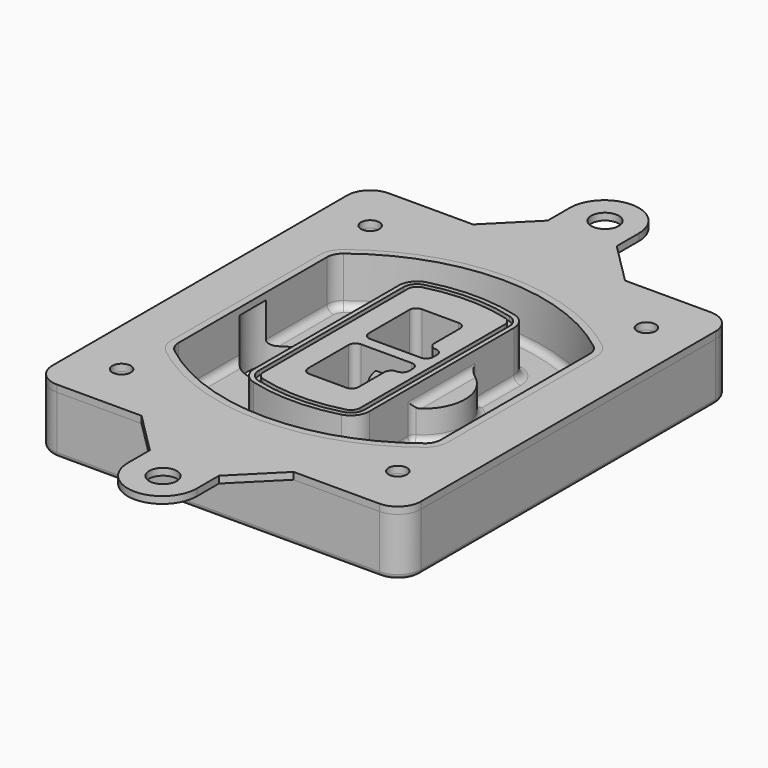
from build123d import *

# Parameters (mm, degrees)
F0_R      = 4
F1_DEPTH  = 25
F2_DEPTH  = 3
F3_DEPTH  = 18
F5_DEPTH  = 21
F6_DEPTH  = 2
F8_DEPTH  = 20
F9_DEPTH  = 16
F10_DEPTH = 25
F7_R      = 6
F7_R_2    = 4
F11_DEPTH = 6
F13_DEPTH = 9
F14_R     = 3
F15_R     = 2
F16_R     = 4
F16_R_2   = 6
F17_DEPTH = 3


with BuildPart() as f1:
    # F0 (on Top) → F1 (new body)
    with BuildSketch(Plane.XY):
        with BuildLine():
            ThreePointArc((-80, -80), (-77.0710678119, -87.0710678119), (-70, -90))
            Line((-70, -90), (70, -90))
            ThreePointArc((70, -90), (77.0710678119, -87.0710678119), (80, -80))
            Line((80, -80), (80, 80))
            ThreePointArc((80, 80), (77.0710678119, 87.0710678119), (70, 90))
            Line((70, 90), (-70, 90))
            ThreePointArc((-70, 90), (-77.0710678119, 87.0710678119), (-80, 80))
            Line((-80, 80), (-80, -80))
        make_face()
        with Locations((-60, -67.5)):
            Circle(F0_R, mode=Mode.SUBTRACT)
        with Locations((60, -67.5)):
            Circle(F0_R, mode=Mode.SUBTRACT)
        with Locations((-60, 67.5)):
            Circle(F0_R, mode=Mode.SUBTRACT)
        with BuildLine():
            ThreePointArc((-64, 40.2934422872), (-62.5820384798, 46.4328484224), (-58.6153846154, 51.3286200352))
            ThreePointArc((-58.6153846154, 51.3286200352), (0, 71.5), (58.6153846154, 51.3286200352))
            ThreePointArc((58.6153846154, 51.3286200352), (62.5820384798, 46.4328484224), (64, 40.2934422872))
            Line((64, 40.2934422872), (64, -40.2934422872))
            ThreePointArc((64, -40.2934422872), (62.5820384798, -46.4328484224), (58.6153846154, -51.3286200352))
            ThreePointArc((58.6153846154, -51.3286200352), (0, -71.5), (-58.6153846154, -51.3286200352))
            ThreePointArc((-58.6153846154, -51.3286200352), (-62.5820384798, -46.4328484224), (-64, -40.2934422872))
            Line((-64, -40.2934422872), (-64, 40.2934422872))
        make_face(mode=Mode.SUBTRACT)
        with Locations((60, 67.5)):
            Circle(F0_R, mode=Mode.SUBTRACT)
        with BuildLine():
            ThreePointArc((58.6153846154, 51.3286200352), (0, 71.5), (-58.6153846154, 51.3286200352))
            ThreePointArc((-58.6153846154, 51.3286200352), (-62.5820384798, 46.4328484224), (-64, 40.2934422872))
            Line((-64, 40.2934422872), (-64, -40.2934422872))
            ThreePointArc((-64, -40.2934422872), (-62.5820384798, -46.4328484224), (-58.6153846154, -51.3286200352))
            ThreePointArc((-58.6153846154, -51.3286200352), (0, -71.5), (58.6153846154, -51.3286200352))
            ThreePointArc((58.6153846154, -51.3286200352), (62.5820384798, -46.4328484224), (64, -40.2934422872))
            Line((64, -40.2934422872), (64, 40.2934422872))
            ThreePointArc((64, 40.2934422872), (62.5820384798, 46.4328484224), (58.6153846154, 51.3286200352))
        make_face()
        with BuildLine():
            Line((-60, -40.2934422872), (-60, 40.2934422872))
            ThreePointArc((-60, 40.2934422872), (-58.9871703427, 44.6787323838), (-56.1538461538, 48.1757121072))
            ThreePointArc((-56.1538461538, 48.1757121072), (0, 67.5), (56.1538461538, 48.1757121072))
            ThreePointArc((56.1538461538, 48.1757121072), (58.9871703427, 44.6787323838), (60, 40.2934422872))
            Line((60, 40.2934422872), (60, -40.2934422872))
            ThreePointArc((60, -40.2934422872), (58.9871703427, -44.6787323838), (56.1538461538, -48.1757121072))
            ThreePointArc((56.1538461538, -48.1757121072), (0, -67.5), (-56.1538461538, -48.1757121072))
            ThreePointArc((-56.1538461538, -48.1757121072), (-58.9871703427, -44.6787323838), (-60, -40.2934422872))
        make_face(mode=Mode.SUBTRACT)
        with BuildLine():
            ThreePointArc((-56.1538461538, 48.1757121072), (-58.9871703427, 44.6787323838), (-60, 40.2934422872))
            Line((-60, 40.2934422872), (-60, -40.2934422872))
            ThreePointArc((-60, -40.2934422872), (-58.9871703427, -44.6787323838), (-56.1538461538, -48.1757121072))
            ThreePointArc((-56.1538461538, -48.1757121072), (0, -67.5), (56.1538461538, -48.1757121072))
            ThreePointArc((56.1538461538, -48.1757121072), (58.9871703427, -44.6787323838), (60, -40.2934422872))
            Line((60, -40.2934422872), (60, 40.2934422872))
            ThreePointArc((60, 40.2934422872), (58.9871703427, 44.6787323838), (56.1538461538, 48.1757121072))
            ThreePointArc((56.1538461538, 48.1757121072), (0, 67.5), (-56.1538461538, 48.1757121072))
        make_face()
        with BuildLine():
            ThreePointArc((54.3076923077, 45.8110311612), (56.2910192399, 43.3631453548), (57, 40.2934422872))
            Line((57, 40.2934422872), (57, -40.2934422872))
            ThreePointArc((57, -40.2934422872), (56.2910192399, -43.3631453548), (54.3076923077, -45.8110311612))
            ThreePointArc((54.3076923077, -45.8110311612), (0, -64.5), (-54.3076923077, -45.8110311612))
            ThreePointArc((-54.3076923077, -45.8110311612), (-56.2910192399, -43.3631453548), (-57, -40.2934422872))
            Line((-57, -40.2934422872), (-57, 40.2934422872))
            ThreePointArc((-57, 40.2934422872), (-56.2910192399, 43.3631453548), (-54.3076923077, 45.8110311612))
            ThreePointArc((-54.3076923077, 45.8110311612), (0, 64.5), (54.3076923077, 45.8110311612))
        make_face(mode=Mode.SUBTRACT)
        with BuildLine():
            Line((57, -40.2934422872), (57, 40.2934422872))
            ThreePointArc((57, 40.2934422872), (56.2910192399, 43.3631453548), (54.3076923077, 45.8110311612))
            ThreePointArc((54.3076923077, 45.8110311612), (0, 64.5), (-54.3076923077, 45.8110311612))
            ThreePointArc((-54.3076923077, 45.8110311612), (-56.2910192399, 43.3631453548), (-57, 40.2934422872))
            Line((-57, 40.2934422872), (-57, -40.2934422872))
            ThreePointArc((-57, -40.2934422872), (-56.2910192399, -43.3631453548), (-54.3076923077, -45.8110311612))
            ThreePointArc((-54.3076923077, -45.8110311612), (0, -64.5), (54.3076923077, -45.8110311612))
            ThreePointArc((54.3076923077, -45.8110311612), (56.2910192399, -43.3631453548), (57, -40.2934422872))
        make_face()
    extrude(amount=-F1_DEPTH)

    # F0 (on Top) → F2 (join)
    with BuildSketch(Plane.XY):
        with BuildLine():
            ThreePointArc((-56.1538461538, 48.1757121072), (-58.9871703427, 44.6787323838), (-60, 40.2934422872))
            Line((-60, 40.2934422872), (-60, -40.2934422872))
            ThreePointArc((-60, -40.2934422872), (-58.9871703427, -44.6787323838), (-56.1538461538, -48.1757121072))
            ThreePointArc((-56.1538461538, -48.1757121072), (0, -67.5), (56.1538461538, -48.1757121072))
            ThreePointArc((56.1538461538, -48.1757121072), (58.9871703427, -44.6787323838), (60, -40.2934422872))
            Line((60, -40.2934422872), (60, 40.2934422872))
            ThreePointArc((60, 40.2934422872), (58.9871703427, 44.6787323838), (56.1538461538, 48.1757121072))
            ThreePointArc((56.1538461538, 48.1757121072), (0, 67.5), (-56.1538461538, 48.1757121072))
        make_face()
        with BuildLine():
            ThreePointArc((54.3076923077, 45.8110311612), (56.2910192399, 43.3631453548), (57, 40.2934422872))
            Line((57, 40.2934422872), (57, -40.2934422872))
            ThreePointArc((57, -40.2934422872), (56.2910192399, -43.3631453548), (54.3076923077, -45.8110311612))
            ThreePointArc((54.3076923077, -45.8110311612), (0, -64.5), (-54.3076923077, -45.8110311612))
            ThreePointArc((-54.3076923077, -45.8110311612), (-56.2910192399, -43.3631453548), (-57, -40.2934422872))
            Line((-57, -40.2934422872), (-57, 40.2934422872))
            ThreePointArc((-57, 40.2934422872), (-56.2910192399, 43.3631453548), (-54.3076923077, 45.8110311612))
            ThreePointArc((-54.3076923077, 45.8110311612), (0, 64.5), (54.3076923077, 45.8110311612))
        make_face(mode=Mode.SUBTRACT)
    extrude(amount=F2_DEPTH)

    # F0 (on Top) → F3 (cut)
    with BuildSketch(Plane.XY):
        with BuildLine():
            Line((57, -40.2934422872), (57, 40.2934422872))
            ThreePointArc((57, 40.2934422872), (56.2910192399, 43.3631453548), (54.3076923077, 45.8110311612))
            ThreePointArc((54.3076923077, 45.8110311612), (0, 64.5), (-54.3076923077, 45.8110311612))
            ThreePointArc((-54.3076923077, 45.8110311612), (-56.2910192399, 43.3631453548), (-57, 40.2934422872))
            Line((-57, 40.2934422872), (-57, -40.2934422872))
            ThreePointArc((-57, -40.2934422872), (-56.2910192399, -43.3631453548), (-54.3076923077, -45.8110311612))
            ThreePointArc((-54.3076923077, -45.8110311612), (0, -64.5), (54.3076923077, -45.8110311612))
            ThreePointArc((54.3076923077, -45.8110311612), (56.2910192399, -43.3631453548), (57, -40.2934422872))
        make_face()
    extrude(amount=-F3_DEPTH, mode=Mode.SUBTRACT)

    # F4 (on face) → F5 (join, through all)
    with BuildSketch(Plane.XY.offset(3)):
        with BuildLine():
            ThreePointArc((-25, -39.2465276821), (-23.3511545998, -44.1109737193), (-19.0842911877, -46.9702398883))
            ThreePointArc((-19.0842911877, -46.9702398883), (0, -49.5), (19.0842911877, -46.9702398883))
            ThreePointArc((19.0842911877, -46.9702398883), (23.3511545998, -44.1109737193), (25, -39.2465276821))
            Line((25, -39.2465276821), (25, 39.2465276821))
            ThreePointArc((25, 39.2465276821), (23.3511545998, 44.1109737193), (19.0842911877, 46.9702398883))
            ThreePointArc((19.0842911877, 46.9702398883), (0, 49.5), (-19.0842911877, 46.9702398883))
            ThreePointArc((-19.0842911877, 46.9702398883), (-23.3511545998, 44.1109737193), (-25, 39.2465276821))
            Line((-25, 39.2465276821), (-25, -39.2465276821))
        make_face()
        with BuildLine():
            ThreePointArc((18.5632183908, 45.0393118368), (21.7633659499, 42.89486221), (23, 39.2465276821))
            Line((23, 39.2465276821), (23, -39.2465276821))
            ThreePointArc((23, -39.2465276821), (21.7633659499, -42.89486221), (18.5632183908, -45.0393118368))
            ThreePointArc((18.5632183908, -45.0393118368), (0, -47.5), (-18.5632183908, -45.0393118368))
            ThreePointArc((-18.5632183908, -45.0393118368), (-21.7633659499, -42.89486221), (-23, -39.2465276821))
            Line((-23, -39.2465276821), (-23, 39.2465276821))
            ThreePointArc((-23, 39.2465276821), (-21.7633659499, 42.89486221), (-18.5632183908, 45.0393118368))
            ThreePointArc((-18.5632183908, 45.0393118368), (0, 47.5), (18.5632183908, 45.0393118368))
        make_face(mode=Mode.SUBTRACT)
        with BuildLine():
            Line((23, -39.2465276821), (23, 39.2465276821))
            ThreePointArc((23, 39.2465276821), (21.7633659499, 42.89486221), (18.5632183908, 45.0393118368))
            ThreePointArc((18.5632183908, 45.0393118368), (0, 47.5), (-18.5632183908, 45.0393118368))
            ThreePointArc((-18.5632183908, 45.0393118368), (-21.7633659499, 42.89486221), (-23, 39.2465276821))
            Line((-23, 39.2465276821), (-23, -39.2465276821))
            ThreePointArc((-23, -39.2465276821), (-21.7633659499, -42.89486221), (-18.5632183908, -45.0393118368))
            ThreePointArc((-18.5632183908, -45.0393118368), (0, -47.5), (18.5632183908, -45.0393118368))
            ThreePointArc((18.5632183908, -45.0393118368), (21.7633659499, -42.89486221), (23, -39.2465276821))
        make_face()
        with BuildLine():
            ThreePointArc((18.0421455939, 43.1083837852), (20.1755772999, 41.6787507007), (21, 39.2465276821))
            Line((21, 39.2465276821), (21, -39.2465276821))
            ThreePointArc((21, -39.2465276821), (20.1755772999, -41.6787507007), (18.0421455939, -43.1083837852))
            ThreePointArc((18.0421455939, -43.1083837852), (0, -45.5), (-18.0421455939, -43.1083837852))
            ThreePointArc((-18.0421455939, -43.1083837852), (-20.1755772999, -41.6787507007), (-21, -39.2465276821))
            Line((-21, -39.2465276821), (-21, 39.2465276821))
            ThreePointArc((-21, 39.2465276821), (-20.1755772999, 41.6787507007), (-18.0421455939, 43.1083837852))
            ThreePointArc((-18.0421455939, 43.1083837852), (0, 45.5), (18.0421455939, 43.1083837852))
        make_face(mode=Mode.SUBTRACT)
        with BuildLine():
            Line((21, -39.2465276821), (21, 39.2465276821))
            ThreePointArc((21, 39.2465276821), (20.1755772999, 41.6787507007), (18.0421455939, 43.1083837852))
            ThreePointArc((18.0421455939, 43.1083837852), (0, 45.5), (-18.0421455939, 43.1083837852))
            ThreePointArc((-18.0421455939, 43.1083837852), (-20.1755772999, 41.6787507007), (-21, 39.2465276821))
            Line((-21, 39.2465276821), (-21, -39.2465276821))
            ThreePointArc((-21, -39.2465276821), (-20.1755772999, -41.6787507007), (-18.0421455939, -43.1083837852))
            ThreePointArc((-18.0421455939, -43.1083837852), (0, -45.5), (18.0421455939, -43.1083837852))
            ThreePointArc((18.0421455939, -43.1083837852), (20.1755772999, -41.6787507007), (21, -39.2465276821))
        make_face()
        with BuildLine():
            Line((-8, -2.5), (14, -2.5))
            ThreePointArc((14, -2.5), (16.1213203436, -3.3786796564), (17, -5.5))
            Line((17, -5.5), (17, -7.5))
            ThreePointArc((17, -7.5), (16.1213203436, -9.6213203436), (14, -10.5))
            ThreePointArc((14, -10.5), (11.8786796564, -11.3786796564), (11, -13.5))
            Line((11, -13.5), (11, -27.5))
            ThreePointArc((11, -27.5), (10.1213203436, -29.6213203436), (8, -30.5))
            Line((8, -30.5), (-8, -30.5))
            ThreePointArc((-8, -30.5), (-10.1213203436, -29.6213203436), (-11, -27.5))
            Line((-11, -27.5), (-11, -5.5))
            ThreePointArc((-11, -5.5), (-10.1213203436, -3.3786796564), (-8, -2.5))
        make_face(mode=Mode.SUBTRACT)
        with BuildLine():
            ThreePointArc((-8, 2.5), (-10.1213203436, 3.3786796564), (-11, 5.5))
            Line((-11, 5.5), (-11, 27.5))
            ThreePointArc((-11, 27.5), (-10.1213203436, 29.6213203436), (-8, 30.5))
            Line((-8, 30.5), (8, 30.5))
            ThreePointArc((8, 30.5), (10.1213203436, 29.6213203436), (11, 27.5))
            Line((11, 27.5), (11, 13.5))
            ThreePointArc((11, 13.5), (11.8786796564, 11.3786796564), (14, 10.5))
            ThreePointArc((14, 10.5), (16.1213203436, 9.6213203436), (17, 7.5))
            Line((17, 7.5), (17, 5.5))
            ThreePointArc((17, 5.5), (16.1213203436, 3.3786796564), (14, 2.5))
            Line((14, 2.5), (-8, 2.5))
        make_face(mode=Mode.SUBTRACT)
    extrude(amount=-F5_DEPTH)

    # F4 (on face) → F6 (cut)
    with BuildSketch(Plane.XY.offset(3)):
        with BuildLine():
            Line((23, -39.2465276821), (23, 39.2465276821))
            ThreePointArc((23, 39.2465276821), (21.7633659499, 42.89486221), (18.5632183908, 45.0393118368))
            ThreePointArc((18.5632183908, 45.0393118368), (0, 47.5), (-18.5632183908, 45.0393118368))
            ThreePointArc((-18.5632183908, 45.0393118368), (-21.7633659499, 42.89486221), (-23, 39.2465276821))
            Line((-23, 39.2465276821), (-23, -39.2465276821))
            ThreePointArc((-23, -39.2465276821), (-21.7633659499, -42.89486221), (-18.5632183908, -45.0393118368))
            ThreePointArc((-18.5632183908, -45.0393118368), (0, -47.5), (18.5632183908, -45.0393118368))
            ThreePointArc((18.5632183908, -45.0393118368), (21.7633659499, -42.89486221), (23, -39.2465276821))
        make_face()
        with BuildLine():
            ThreePointArc((18.0421455939, 43.1083837852), (20.1755772999, 41.6787507007), (21, 39.2465276821))
            Line((21, 39.2465276821), (21, -39.2465276821))
            ThreePointArc((21, -39.2465276821), (20.1755772999, -41.6787507007), (18.0421455939, -43.1083837852))
            ThreePointArc((18.0421455939, -43.1083837852), (0, -45.5), (-18.0421455939, -43.1083837852))
            ThreePointArc((-18.0421455939, -43.1083837852), (-20.1755772999, -41.6787507007), (-21, -39.2465276821))
            Line((-21, -39.2465276821), (-21, 39.2465276821))
            ThreePointArc((-21, 39.2465276821), (-20.1755772999, 41.6787507007), (-18.0421455939, 43.1083837852))
            ThreePointArc((-18.0421455939, 43.1083837852), (0, 45.5), (18.0421455939, 43.1083837852))
        make_face(mode=Mode.SUBTRACT)
    extrude(amount=-F6_DEPTH, mode=Mode.SUBTRACT)

    # F7 (on face) → F8 (join)
    with BuildSketch(Plane(origin=(0, 0, -25), x_dir=(1, 0, 0), z_dir=(0, 0, -1))):
        with BuildLine():
            ThreePointArc((3.28842436, 0), (16.7567035675, 13.4682792075), (30.224982775, 0))
            Line((30.224982775, 0), (35.224982775, 0))
            ThreePointArc((35.224982775, 0), (16.7567035675, 18.4682792075), (-1.71157564, 0))
            Line((-1.71157564, 0), (3.28842436, 0))
        make_face()
        with BuildLine():
            Line((3.28842436, 0), (30.224982775, 0))
            ThreePointArc((30.224982775, 0), (16.7567035675, 13.4682792075), (3.28842436, 0))
        make_face()
        with BuildLine():
            ThreePointArc((3.28842436, 0), (16.7567035675, -13.4682792075), (30.224982775, 0))
            Line((30.224982775, 0), (3.28842436, 0))
        make_face()
        with BuildLine():
            Line((35.224982775, 0), (30.224982775, 0))
            ThreePointArc((30.224982775, 0), (16.7567035675, -13.4682792075), (3.28842436, 0))
            Line((3.28842436, 0), (-1.71157564, 0))
            ThreePointArc((-1.71157564, 0), (16.7567035675, -18.4682792075), (35.224982775, 0))
        make_face()
    extrude(amount=-F8_DEPTH)

    # F7 (on face) → F9 (cut)
    with BuildSketch(Plane(origin=(0, 0, -25), x_dir=(1, 0, 0), z_dir=(0, 0, -1))):
        with BuildLine():
            Line((3.28842436, 0), (30.224982775, 0))
            ThreePointArc((30.224982775, 0), (16.7567035675, 13.4682792075), (3.28842436, 0))
        make_face()
        with BuildLine():
            ThreePointArc((3.28842436, 0), (16.7567035675, -13.4682792075), (30.224982775, 0))
            Line((30.224982775, 0), (3.28842436, 0))
        make_face()
    extrude(amount=-F9_DEPTH, mode=Mode.SUBTRACT)

    # F7 (on face) → F10 (cut)
    with BuildSketch(Plane(origin=(0, 0, -25), x_dir=(1, 0, 0), z_dir=(0, 0, -1))):
        with BuildLine():
            Line((-59.0318229325, 0), (-32.0952645175, 0))
            ThreePointArc((-32.0952645175, 0), (-45.563543725, 13.4682792075), (-59.0318229325, 0))
        make_face()
        with BuildLine():
            ThreePointArc((-59.0318229325, 0), (-45.563543725, -13.4682792075), (-32.0952645175, 0))
            Line((-32.0952645175, 0), (-59.0318229325, 0))
        make_face()
    extrude(amount=-F10_DEPTH, mode=Mode.SUBTRACT)

    # F7 (on face) → F11 (cut)
    with BuildSketch(Plane(origin=(0, 0, -25), x_dir=(1, 0, 0), z_dir=(0, 0, -1))):
        with Locations((60, -67.5)):
            Circle(F7_R)
        with Locations((60, -67.5)):
            Circle(F7_R_2, mode=Mode.SUBTRACT)
        with Locations((60, -67.5)):
            Circle(F7_R)
        with Locations((60, -67.5)):
            Circle(F7_R_2, mode=Mode.SUBTRACT)
        with Locations((-60, -67.5)):
            Circle(F7_R)
        with Locations((-60, -67.5)):
            Circle(F7_R_2, mode=Mode.SUBTRACT)
        with Locations((-60, -67.5)):
            Circle(F7_R)
        with Locations((-60, -67.5)):
            Circle(F7_R_2, mode=Mode.SUBTRACT)
        with Locations((-60, 67.5)):
            Circle(F7_R)
        with Locations((-60, 67.5)):
            Circle(F7_R_2, mode=Mode.SUBTRACT)
        with Locations((-60, 67.5)):
            Circle(F7_R)
        with Locations((-60, 67.5)):
            Circle(F7_R_2, mode=Mode.SUBTRACT)
        with Locations((60, 67.5)):
            Circle(F7_R)
        with Locations((60, 67.5)):
            Circle(F7_R_2, mode=Mode.SUBTRACT)
        with Locations((60, 67.5)):
            Circle(F7_R)
        with Locations((60, 67.5)):
            Circle(F7_R_2, mode=Mode.SUBTRACT)
    extrude(amount=-F11_DEPTH, mode=Mode.SUBTRACT)

    # F12 (on face) → F13 (cut, through all)
    with BuildSketch(Plane(origin=(0, 0, -9), x_dir=(1, 0, 0), z_dir=(0, 0, -1))):
        with BuildLine():
            Line((11, 13.5), (11, 17.5481537753))
            ThreePointArc((11, 17.5481537753), (2.5696536419, 11.8239143813), (-1.5415842455, 2.5))
            Line((-1.5415842455, 2.5), (3.5224848595, 2.5))
            ThreePointArc((3.5224848595, 2.5), (6.1857188154, 8.3455872281), (11.2536447004, 12.2927168648))
            ThreePointArc((11.2536447004, 12.2927168648), (11.0640958889, 12.8831798879), (11, 13.5))
        make_face()
        with BuildLine():
            ThreePointArc((11.2536447004, -12.2927168648), (6.1857188154, -8.3455872281), (3.5224848595, -2.5))
            Line((3.5224848595, -2.5), (-1.5415842455, -2.5))
            ThreePointArc((-1.5415842455, -2.5), (2.5696536419, -11.8239143813), (11, -17.5481537753))
            Line((11, -17.5481537753), (11, -13.5))
            ThreePointArc((11, -13.5), (11.0640958889, -12.8831798879), (11.2536447004, -12.2927168648))
        make_face()
        with BuildLine():
            ThreePointArc((11.2536447004, 12.2927168648), (6.1857188154, 8.3455872281), (3.5224848595, 2.5))
            Line((3.5224848595, 2.5), (14, 2.5))
            ThreePointArc((14, 2.5), (16.1213203436, 3.3786796564), (17, 5.5))
            Line((17, 5.5), (17, 7.5))
            ThreePointArc((17, 7.5), (16.1213203436, 9.6213203436), (14, 10.5))
            ThreePointArc((14, 10.5), (12.3601599782, 10.9878446101), (11.2536447004, 12.2927168648))
        make_face()
        with BuildLine():
            Line((14, -2.5), (3.5224848595, -2.5))
            ThreePointArc((3.5224848595, -2.5), (6.1857188154, -8.3455872281), (11.2536447004, -12.2927168648))
            ThreePointArc((11.2536447004, -12.2927168648), (12.3601599782, -10.9878446101), (14, -10.5))
            ThreePointArc((14, -10.5), (16.1213203436, -9.6213203436), (17, -7.5))
            Line((17, -7.5), (17, -5.5))
            ThreePointArc((17, -5.5), (16.1213203436, -3.3786796564), (14, -2.5))
        make_face()
    extrude(amount=F13_DEPTH, mode=Mode.SUBTRACT)

    # F14
    f14_edges = [f1.edges().sort_by_distance(p)[0] for p in [
        (-57, -23.703476, -18),
        (-57, 23.703476, -18),
        (25, 0, -5),
        (25, 16.526506, -11.5),
        (25, -16.526506, -11.5),
        (25, -27.886517, -18),
        (35.224983, 0, -18),
    ]]
    fillet(f14_edges, radius=F14_R)

    # F15
    f15_edges = [f1.edges().sort_by_distance(p)[0] for p in [
        (0, -90, -25),
    ]]
    fillet(f15_edges, radius=F15_R)


with BuildPart() as f17:
    # F16 (on face) → F17 (new body, through all)
    with BuildSketch(Plane.XY):
        with BuildLine():
            Line((70, 90), (32.6917724423, 90))
            Line((32.6917724423, 90), (-33.3082275577, 90))
            Line((-33.3082275577, 90), (-70, 90))
            ThreePointArc((-70, 90), (-77.0710678119, 87.0710678119), (-80, 80))
            Line((-80, 80), (-80, -80))
            ThreePointArc((-80, -80), (-77.0710678119, -87.0710678119), (-70, -90))
            Line((-70, -90), (-33.3082275577, -90))
            Line((-33.3082275577, -90), (32.6917724423, -90))
            Line((32.6917724423, -90), (70, -90))
            ThreePointArc((70, -90), (77.0710678119, -87.0710678119), (80, -80))
            Line((80, -80), (80, 80))
            ThreePointArc((80, 80), (77.0710678119, 87.0710678119), (70, 90))
        make_face()
        with Locations((-60, -67.5)):
            Circle(F16_R, mode=Mode.SUBTRACT)
        with Locations((60, -67.5)):
            Circle(F16_R, mode=Mode.SUBTRACT)
        with Locations((-60, 67.5)):
            Circle(F16_R, mode=Mode.SUBTRACT)
        with BuildLine():
            ThreePointArc((-60, 40.2934422872), (-58.9871703427, 44.6787323838), (-56.1538461538, 48.1757121072))
            ThreePointArc((-56.1538461538, 48.1757121072), (0, 67.5), (56.1538461538, 48.1757121072))
            ThreePointArc((56.1538461538, 48.1757121072), (58.9871703427, 44.6787323838), (60, 40.2934422872))
            Line((60, 40.2934422872), (60, -40.2934422872))
            ThreePointArc((60, -40.2934422872), (58.9871703427, -44.6787323838), (56.1538461538, -48.1757121072))
            ThreePointArc((56.1538461538, -48.1757121072), (0, -67.5), (-56.1538461538, -48.1757121072))
            ThreePointArc((-56.1538461538, -48.1757121072), (-58.9871703427, -44.6787323838), (-60, -40.2934422872))
            Line((-60, -40.2934422872), (-60, 40.2934422872))
        make_face(mode=Mode.SUBTRACT)
        with Locations((60, 67.5)):
            Circle(F16_R, mode=Mode.SUBTRACT)
        with BuildLine():
            Line((14.6917724423, 108), (14.6917724423, 120))
            ThreePointArc((14.6917724423, 120), (-0.3082275577, 135), (-15.3082275577, 120))
            Line((-15.3082275577, 120), (-15.3082275577, 108))
            Line((-15.3082275577, 108), (-33.3082275577, 90))
            Line((-33.3082275577, 90), (32.6917724423, 90))
            Line((32.6917724423, 90), (14.6917724423, 108))
        make_face()
        with Locations((0, 120)):
            Circle(F16_R_2, mode=Mode.SUBTRACT)
        with BuildLine():
            Line((14.6917724423, -108), (32.6917724423, -90))
            Line((32.6917724423, -90), (-33.3082275577, -90))
            Line((-33.3082275577, -90), (-15.3082275577, -108))
            Line((-15.3082275577, -108), (-15.3082275577, -120))
            ThreePointArc((-15.3082275577, -120), (-0.3082275577, -135), (14.6917724423, -120))
            Line((14.6917724423, -120), (14.6917724423, -108))
        make_face()
        with Locations((0, -120)):
            Circle(F16_R_2, mode=Mode.SUBTRACT)
    extrude(amount=F17_DEPTH)


solid = Compound([f1.part, f17.part])
